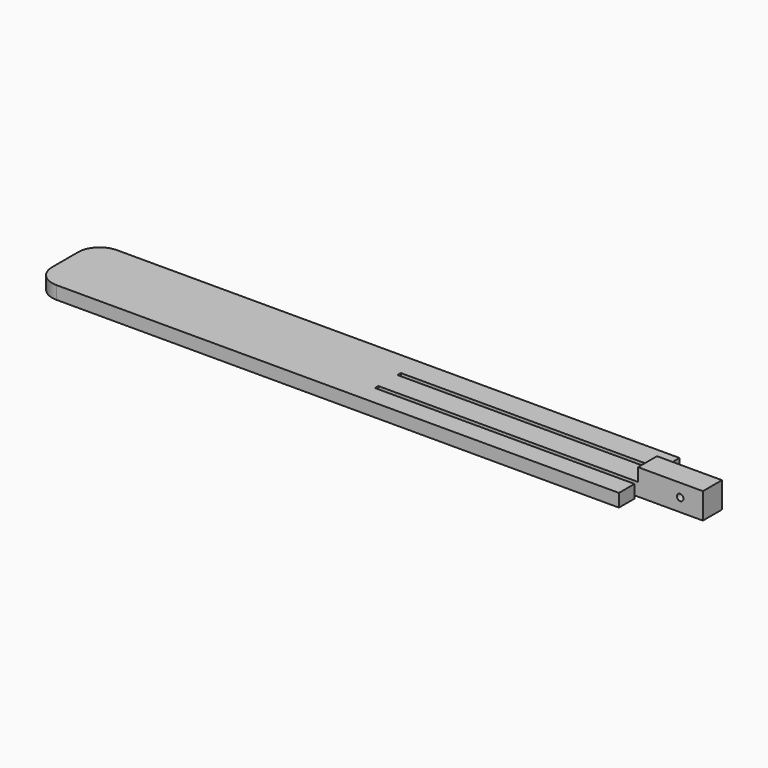
from build123d import *

# Parameters (mm, degrees)
F1_DEPTH = 6
F2_R     = 10
F3_W     = 30
F3_H     = 11
F4_DEPTH = 6
F5_R     = 1.5
F6_DEPTH = 25


with BuildPart() as f1:
    # F0 (on Top) → F1 (new body)
    with BuildSketch(Plane.XY):
        Polygon((120, 17.5), (-150, 17.5), (-150, -17.5), (120, -17.5), (120, -8.5), (0, -8.5), (0, -6.5), (150, -6.5), (150, 4.5), (0, 4.5), (0, 6.5), (120, 6.5), align=None)
    extrude(amount=F1_DEPTH)

    # F2
    f2_edges = [f1.edges().sort_by_distance(p)[0] for p in [
        (-150, -17.5, 3),
        (-150, 17.5, 3),
    ]]
    fillet(f2_edges, radius=F2_R)

    # F3 (on face) → F4 (join)
    with BuildSketch(Plane.XY.offset(6)):
        with Locations((135, -1)):
            Rectangle(F3_W, F3_H)
    extrude(amount=F4_DEPTH)

    # F5 (on face) → F6 (cut)
    with BuildSketch(Plane.XZ.offset(6.5)):
        with Locations((139.5, 6)):
            Circle(F5_R)
    extrude(amount=-F6_DEPTH, mode=Mode.SUBTRACT)


solid = f1.part
